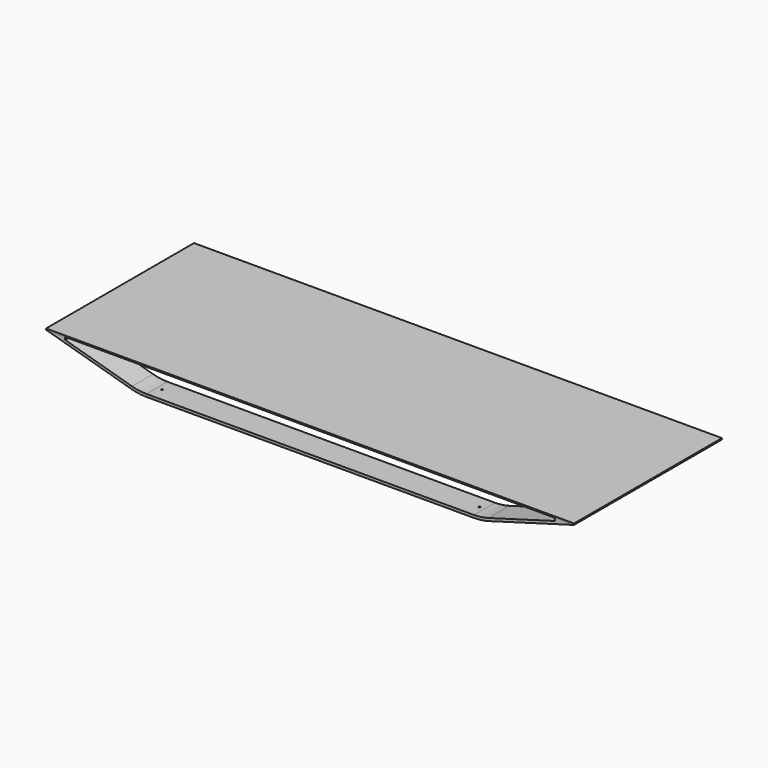
from build123d import *

# Parameters (mm, degrees)
F1_DEPTH        = 700
F2_W            = 2000
F2_H            = 100
F3_DEPTH        = 680
F4_W            = 1857.1988883398
F4_H            = 10.0000008941
F5_DEPTH        = 689
F7_DEPTH        = 10
F8_R            = 200
F9_R            = 200
F11_W           = 1161.1769230007
F11_H           = 206.3662915144
F11_H_2         = 100
F11_H_3         = 47.0509885464
F12_DEPTH       = 175
F14_D           = 6.8
F14_DEPTH       = 15.75
F14_CSINK_D     = 17.92
F14_CSINK_ANGLE = 90
F14_TIP         = 2.0429261047
F16_D           = 6.8
F16_DEPTH       = 15.75
F16_CSINK_D     = 17.92
F16_CSINK_ANGLE = 90
F16_TIP         = 2.0429261047
F18_D           = 6.8
F18_DEPTH       = 15.75
F18_CSINK_D     = 17.92
F18_CSINK_ANGLE = 90
F18_TIP         = 2.0429261047
F19_W           = 71.4005558301
F19_H           = 100
F20_DEPTH       = 5
F22_D           = 6.8
F22_DEPTH       = 15.75
F22_CSINK_D     = 17.92
F22_CSINK_ANGLE = 90
F22_TIP         = 2.0429261047
F24_D           = 6.8
F24_DEPTH       = 15.75
F24_CSINK_D     = 17.92
F24_CSINK_ANGLE = 90
F24_TIP         = 2.0429261047
F26_D           = 6.8
F26_DEPTH       = 15.75
F26_CSINK_D     = 17.92
F26_CSINK_ANGLE = 90
F26_TIP         = 2.0429261047


with BuildPart() as f1:
    # F0 (on Front) → F1 (new body)
    with BuildSketch(Plane.XZ):
        Polygon((1000, 50), (-1000, 50), (-650, -50), (650, -50), align=None)
    extrude(amount=-F1_DEPTH)

    # F2 (on face) → F3 (cut)
    with BuildSketch(Plane.XY.offset(50)):
        with Locations((0, 550)):
            Rectangle(F2_W, F2_H)
        with Locations((0, 350)):
            Rectangle(F2_W, F2_H)
        with Locations((0, 150)):
            Rectangle(F2_W, F2_H)
    extrude(amount=-F3_DEPTH, mode=Mode.SUBTRACT)

    # F4 (on face) → F5 (cut)
    with BuildSketch(Plane.XZ):
        Polygon((928.5994441699, 39.9999991059), (-928.5994441699, 39.9999991059), (-648.5994504284, -39.9999991059), (648.5994504284, -39.9999991059), align=None)
        with Locations((0, 44.999999553)):
            Rectangle(F4_W, F4_H)
    extrude(amount=-F5_DEPTH, mode=Mode.SUBTRACT)

    # F8
    f8_edges = [f1.edges().sort_by_distance(p)[0] for p in [
        (-650, 250, -50),
        (-650, 50, -50),
        (-650, 450, -50),
        (-650, 650, -50),
        (650, 650, -50),
        (650, 450, -50),
        (650, 250, -50),
        (650, 50, -50),
        (-648.59945, 250, -39.999999),
        (-648.59945, 50, -39.999999),
        (-648.59945, 450, -39.999999),
        (-648.59945, 644.5, -39.999999),
        (648.59945, 250, -39.999999),
        (648.59945, 50, -39.999999),
        (648.59945, 644.5, -39.999999),
    ]]
    fillet(f8_edges, radius=F8_R)

    # F9
    f9_edges = [f1.edges().sort_by_distance(p)[0] for p in [
        (648.59945, 450, -39.999999),
    ]]
    fillet(f9_edges, radius=F9_R)

    # F11 (on face) → F12 (cut)
    with BuildSketch(Plane.XY.offset(-39.9999991059)):
        with Locations((0, 403.1831457572)):
            Rectangle(F11_W, F11_H)
        with Locations((0, 250)):
            Rectangle(F11_W, F11_H_2)
        with Locations((0, 176.4745057268)):
            Rectangle(F11_W, F11_H_3)
    extrude(amount=-F12_DEPTH, mode=Mode.SUBTRACT)

    # F14
    with Locations(Plane(origin=(0, 0, -50), x_dir=(1, 0, 0), z_dir=(0, 0, -1))):
        with Locations((-601.2887362861, -250)):
            CounterSinkHole(F14_D / 2, F14_CSINK_D / 2, depth=F14_DEPTH, counter_sink_angle=F14_CSINK_ANGLE)
            with Locations((0, 0, -(F14_DEPTH + F14_TIP / 2))):  # 118° drill point
                Cone(0, F14_D / 2, F14_TIP, mode=Mode.SUBTRACT)

    # F16
    with Locations(Plane(origin=(0, 0, -50), x_dir=(1, 0, 0), z_dir=(0, 0, -1))):
        with Locations((-601.2887362861, -450)):
            CounterSinkHole(F16_D / 2, F16_CSINK_D / 2, depth=F16_DEPTH, counter_sink_angle=F16_CSINK_ANGLE)
            with Locations((0, 0, -(F16_DEPTH + F16_TIP / 2))):  # 118° drill point
                Cone(0, F16_D / 2, F16_TIP, mode=Mode.SUBTRACT)

    # F18
    with Locations(Plane(origin=(0, 0, -50), x_dir=(1, 0, 0), z_dir=(0, 0, -1))):
        with Locations((-601.7680764198, -650), (600.8628606796, -650)):
            CounterSinkHole(F18_D / 2, F18_CSINK_D / 2, depth=F18_DEPTH, counter_sink_angle=F18_CSINK_ANGLE)
            with Locations((0, 0, -(F18_DEPTH + F18_TIP / 2))):  # 118° drill point
                Cone(0, F18_D / 2, F18_TIP, mode=Mode.SUBTRACT)

    # F22
    with Locations(Plane(origin=(0, 0, -50), x_dir=(1, 0, 0), z_dir=(0, 0, -1))):
        with Locations((601.2887362861, -450)):
            CounterSinkHole(F22_D / 2, F22_CSINK_D / 2, depth=F22_DEPTH, counter_sink_angle=F22_CSINK_ANGLE)
            with Locations((0, 0, -(F22_DEPTH + F22_TIP / 2))):  # 118° drill point
                Cone(0, F22_D / 2, F22_TIP, mode=Mode.SUBTRACT)

    # F24
    with Locations(Plane(origin=(0, 0, -50), x_dir=(1, 0, 0), z_dir=(0, 0, -1))):
        with Locations((601.2887362861, -250)):
            CounterSinkHole(F24_D / 2, F24_CSINK_D / 2, depth=F24_DEPTH, counter_sink_angle=F24_CSINK_ANGLE)
            with Locations((0, 0, -(F24_DEPTH + F24_TIP / 2))):  # 118° drill point
                Cone(0, F24_D / 2, F24_TIP, mode=Mode.SUBTRACT)

    # F26
    with Locations(Plane(origin=(0, 0, -50), x_dir=(1, 0, 0), z_dir=(0, 0, -1))):
        with Locations((601.9890110719, -50), (-601.9890110719, -50)):
            CounterSinkHole(F26_D / 2, F26_CSINK_D / 2, depth=F26_DEPTH, counter_sink_angle=F26_CSINK_ANGLE)
            with Locations((0, 0, -(F26_DEPTH + F26_TIP / 2))):  # 118° drill point
                Cone(0, F26_D / 2, F26_TIP, mode=Mode.SUBTRACT)


with BuildPart() as f7:
    # F6 (on face) → F7 (new body)
    with BuildSketch(Plane.XY.offset(50)):
        Polygon((1000, 700), (-1000, 700), (-1000, 600), (-930.0000071526, 600), (-930.0000071526, 680), (-928.5994441699, 680), (-928.5994441699, 689), (928.5994441699, 689), (928.5994441699, 680), (930.3787350655, 680), (930.3787350655, 600), (1000, 600), align=None)
        Polygon((1000.3787279129, 700), (1000, 700), (1000, 600), (930.3787350655, 600), (930.3787350655, 20), (-930.0000071526, 20), (-930.0000071526, 600), (-1000, 600), (-1000, 0), (1000.3787279129, 0), align=None)
    extrude(amount=F7_DEPTH)


with BuildPart() as f20:
    # F19 (on face) → F20 (new body)
    with BuildSketch(Plane.XY.offset(50)):
        with Locations((964.2997220849, 50)):
            Rectangle(F19_W, F19_H)
        Polygon((-1001.1179447174, 0), (928.5994441699, 0), (928.5994441699, 100), (1000, 100), (1000, 700.7029652596), (-1001.1179447174, 700.7029652596), align=None)
    extrude(amount=F20_DEPTH)


solid = Compound([f1.part, f20.part])
